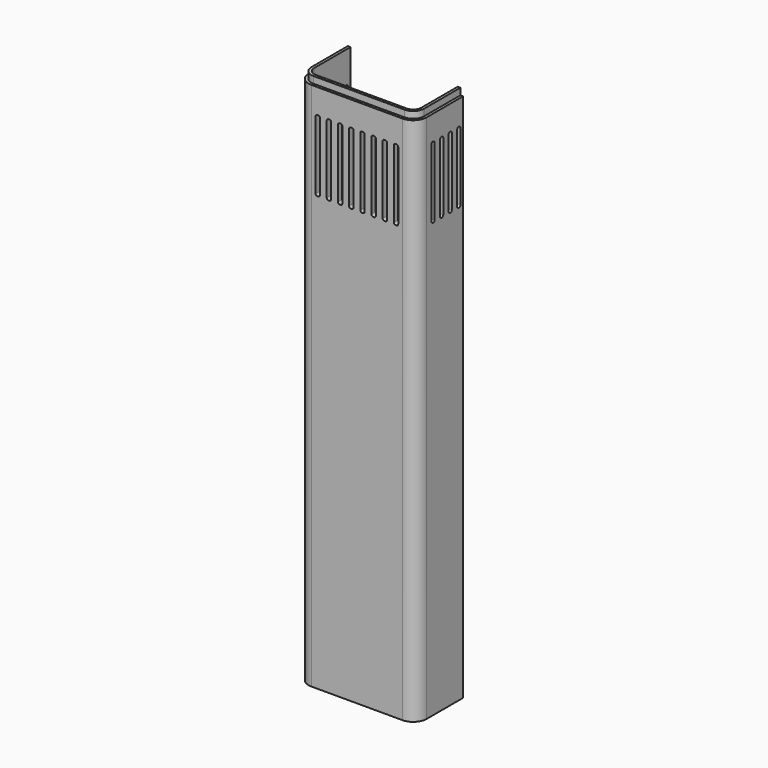
from build123d import *

# Parameters (mm, degrees)
F1_DEPTH = 600
F2_W     = 5
F2_H     = 80
F3_DEPTH = 25
F4_R     = 2
F5_W     = 4.5
F5_H     = 80
F6_DEPTH = 132.001
F7_R     = 2
F9_DEPTH = 7.5


with BuildPart() as f1:
    # F0 (on Top) → F1 (new body)
    with BuildSketch(Plane.XY):
        with BuildLine():
            Line((-60, 0), (-66, 0))
            Line((-66, 0), (-66, -51))
            ThreePointArc((-66, -51), (-61.606602, -61.606602), (-51, -66))
            Line((-51, -66), (51, -66))
            ThreePointArc((51, -66), (61.606602, -61.606602), (66, -51))
            Line((66, -51), (66, 0))
            Line((66, 0), (60, 0))
            Line((60, 0), (60, -51))
            ThreePointArc((60, -51), (57.363961, -57.363961), (51, -60))
            Line((51, -60), (-51, -60))
            ThreePointArc((-51, -60), (-57.363961, -57.363961), (-60, -51))
            Line((-60, -51), (-60, 0))
        make_face()
    extrude(amount=F1_DEPTH)

    # F2 (on face) → F3 (cut)
    with BuildSketch(Plane.XZ.offset(66)):
        with Locations((-43.75, 525)):
            Rectangle(F2_W, F2_H)
        with Locations((-31.25, 525)):
            Rectangle(F2_W, F2_H)
        with Locations((-18.75, 525)):
            Rectangle(F2_W, F2_H)
        with Locations((-6.25, 525)):
            Rectangle(F2_W, F2_H)
        with Locations((6.25, 525)):
            Rectangle(F2_W, F2_H)
        with Locations((18.75, 525)):
            Rectangle(F2_W, F2_H)
        with Locations((31.25, 525)):
            Rectangle(F2_W, F2_H)
        with Locations((43.75, 525)):
            Rectangle(F2_W, F2_H)
    extrude(amount=-F3_DEPTH, mode=Mode.SUBTRACT)

    # F4
    f4_edges = [f1.edges().sort_by_distance(p)[0] for p in [
        (-46.25, -63, 485),
        (-33.75, -63, 485),
        (-21.25, -63, 485),
        (-8.75, -63, 485),
        (3.75, -63, 485),
        (16.25, -63, 485),
        (28.75, -63, 485),
        (41.25, -63, 485),
        (-46.25, -63, 565),
        (-33.75, -63, 565),
        (-21.25, -63, 565),
        (-8.75, -63, 565),
        (3.75, -63, 565),
        (16.25, -63, 565),
        (28.75, -63, 565),
        (41.25, -63, 565),
        (-41.25, -63, 565),
        (-28.75, -63, 565),
        (-16.25, -63, 565),
        (-3.75, -63, 565),
        (8.75, -63, 565),
        (21.25, -63, 565),
        (33.75, -63, 565),
        (46.25, -63, 565),
        (46.25, -63, 485),
        (33.75, -63, 485),
        (21.25, -63, 485),
        (8.75, -63, 485),
        (-3.75, -63, 485),
        (-16.25, -63, 485),
        (-28.75, -63, 485),
        (-41.25, -63, 485),
    ]]
    fillet(f4_edges, radius=F4_R)

    # F5 (on face) → F6 (cut, through all)
    with BuildSketch(Plane.YZ.offset(66)):
        with Locations((-42, 525)):
            Rectangle(F5_W, F5_H)
        with Locations((-30, 525)):
            Rectangle(F5_W, F5_H)
        with Locations((-18, 525)):
            Rectangle(F5_W, F5_H)
        with Locations((-6, 525)):
            Rectangle(F5_W, F5_H)
    extrude(amount=-F6_DEPTH, mode=Mode.SUBTRACT)

    # F7
    f7_edges = [f1.edges().sort_by_distance(p)[0] for p in [
        (-63, -3.75, 485),
        (63, -3.75, 485),
        (-63, -15.75, 485),
        (63, -15.75, 485),
        (-63, -27.75, 485),
        (63, -27.75, 485),
        (-63, -39.75, 485),
        (63, -39.75, 485),
        (-63, -44.25, 485),
        (63, -44.25, 485),
        (-63, -32.25, 485),
        (63, -32.25, 485),
        (-63, -20.25, 485),
        (63, -20.25, 485),
        (-63, -8.25, 485),
        (63, -8.25, 485),
        (-63, -39.75, 565),
        (63, -39.75, 565),
        (-63, -27.75, 565),
        (63, -27.75, 565),
        (-63, -15.75, 565),
        (63, -15.75, 565),
        (-63, -3.75, 565),
        (63, -3.75, 565),
        (-63, -8.25, 565),
        (63, -8.25, 565),
        (-63, -20.25, 565),
        (63, -20.25, 565),
        (-63, -32.25, 565),
        (63, -32.25, 565),
        (-63, -44.25, 565),
        (63, -44.25, 565),
    ]]
    fillet(f7_edges, radius=F7_R)

    # F8 (on face) → F9 (cut)
    with BuildSketch(Plane.XY.offset(600)):
        with BuildLine():
            Line((-63, -51), (-63, 0))
            Line((-63, 0), (-66, 0))
            Line((-66, 0), (-66, -51))
            ThreePointArc((-66, -51), (-61.606602, -61.606602), (-51, -66))
            Line((-51, -66), (51, -66))
            ThreePointArc((51, -66), (61.606602, -61.606602), (66, -51))
            Line((66, -51), (66, 0))
            Line((66, 0), (63, 0))
            Line((63, 0), (63, -51))
            ThreePointArc((63, -51), (59.485281, -59.485281), (51, -63))
            Line((51, -63), (-51, -63))
            ThreePointArc((-51, -63), (-59.485281, -59.485281), (-63, -51))
        make_face()
    extrude(amount=-F9_DEPTH, mode=Mode.SUBTRACT)


solid = f1.part
